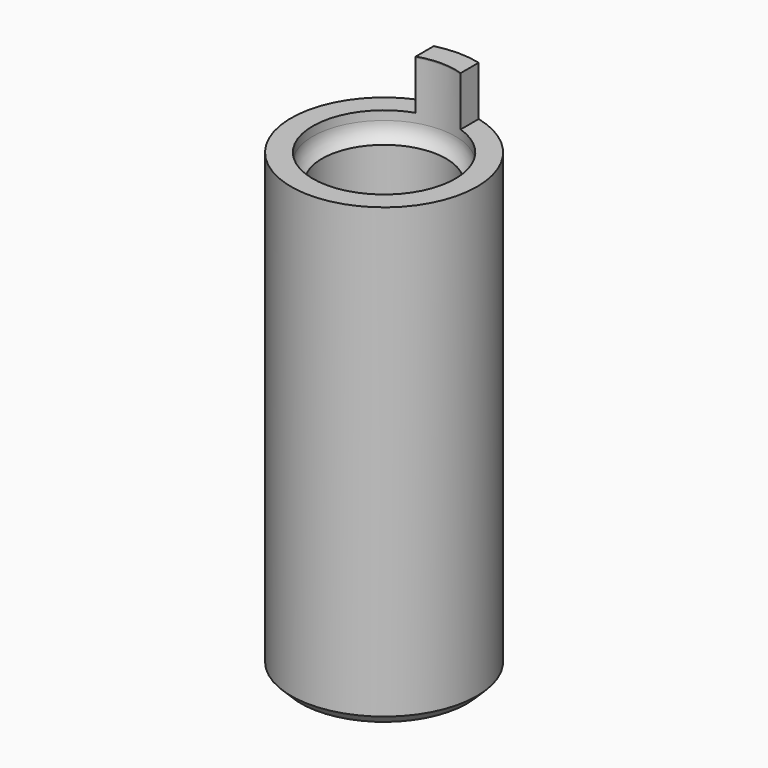
from build123d import *

# Parameters (mm, degrees)
SKETCH_R     = 4.7625
SKETCH_R_2   = 3.175
PAD_DEPTH    = 26
POCKET_DEPTH = 2.54
CHAMFER_SIZE = 0.5


with BuildPart() as part:
    # Sketch → Pad (new body)
    with BuildSketch(Plane.XY):
        Circle(SKETCH_R)
        Circle(SKETCH_R_2, mode=Mode.SUBTRACT)
    extrude(amount=PAD_DEPTH)

    # Sketch001 (on Face4 of Pad) → Pocket (cut)
    with BuildSketch(Plane.XY.offset(26)):
        with BuildLine():
            Line((1.15, 4.943999), (1.15, 2.567225))
            ThreePointArc((-1.15, 2.567225), (0, -2.813031), (1.15, 2.567225))
            Line((-1.15, 2.567225), (-1.15, 4.943999))
            ThreePointArc((-1.15, 4.943999), (0, -5.075985), (1.15, 4.943999))
        make_face()
    extrude(amount=-POCKET_DEPTH, mode=Mode.SUBTRACT)

    # Sketch002 → Groove (revolve, cut)
    with BuildSketch(Plane.YZ):
        with BuildLine():
            ThreePointArc((3.65, 25.944313), (2.65, 26.944313), (1.65, 25.944313))
            Line((1.65, 25.944313), (1.65, 23))
            ThreePointArc((1.65, 23), (2.65, 22), (3.65, 23))
            Line((3.65, 23), (3.65, 25.944313))
        make_face()
    revolve(axis=Axis((0, 0, 0), (0, 0, 1)), mode=Mode.SUBTRACT)

    # Chamfer
    chamfer_edges = [part.edges().sort_by_distance(p)[0] for p in [
        (-4.7625, 0, 0),
        (-3.175, 0, 0),
    ]]
    chamfer(chamfer_edges, length=CHAMFER_SIZE)


solid = part.part
